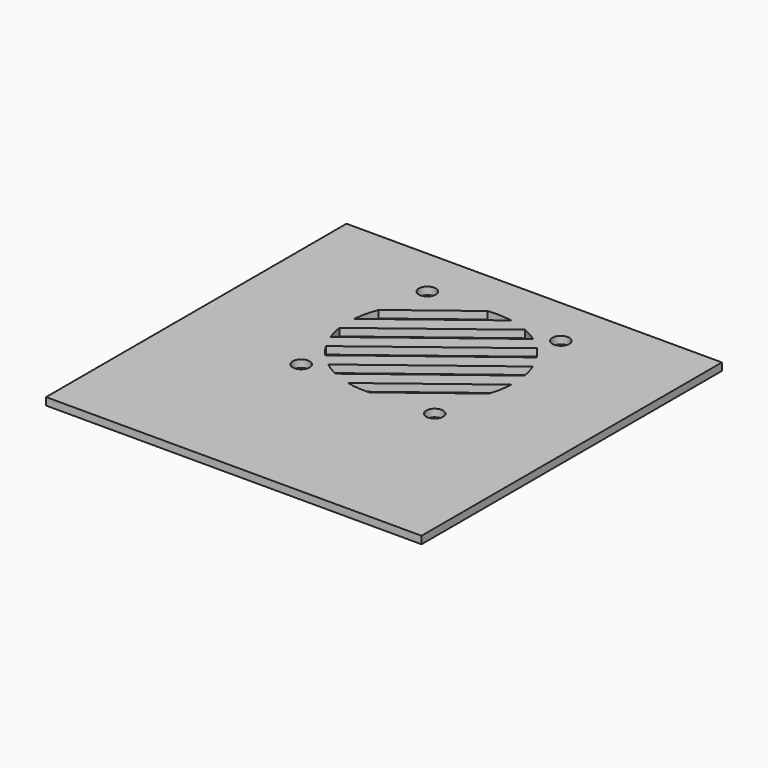
from build123d import *

# Parameters (mm, degrees)
F0_W     = 150
F0_H     = 150
F1_DEPTH = 3
F2_D     = 6.7564
F4_DEPTH = 25


with BuildPart() as f1:
    # F0 (on Top) → F1 (new body)
    with BuildSketch(Plane.XY):
        with Locations((0, 1.9158130744)):
            Rectangle(F0_W, F0_H)
    extrude(amount=F1_DEPTH)

    # F2 (through all)
    with Locations(Plane(origin=(0, 0, 0), x_dir=(1, 0, 0), z_dir=(0, 0, -1))):
        with Locations((-26.6683554199, -56.9034204527), (26.6683554199, -56.9034204527), (-26.6683554199, 6.102117215), (26.6683554199, 6.102117215)):
            Hole(F2_D / 2)

    # F3 (on face) → F4 (cut)
    with BuildSketch(Plane.XY.offset(3)):
        with BuildLine():
            Line((-3.7946185299, 58.3347232517), (-30.747280214, 37.7231456992))
            ThreePointArc((-30.747280214, 37.7231456992), (-32.2234435202, 33.0477107055), (-32.9929459562, 28.2055400674))
            Line((-32.9929459562, 28.2055400674), (5.9788893458, 58.0085708442))
            ThreePointArc((5.9788893458, 58.0085708442), (1.1042434503, 58.5344775669), (-3.7946185299, 58.3347232517))
        make_face()
        with BuildLine():
            Line((13.2642979666, 55.7796879625), (-32.7505124435, 20.5906649099))
            ThreePointArc((-32.7505124435, 20.5906649099), (-32.0865867054, 17.2832595371), (-31.0895548602, 14.0605812744))
            Line((-31.0895548602, 14.0605812744), (19.1311825167, 52.4660135586))
            ThreePointArc((19.1311825167, 52.4660135586), (16.2822571669, 54.2724885893), (13.2642979666, 55.7796879625))
        make_face()
        with BuildLine():
            Line((23.9241830701, 48.3311051134), (-28.3547132801, 8.3517316803))
            ThreePointArc((-28.3547132801, 8.3517316803), (-26.6305999484, 5.7731261787), (-24.6727303472, 3.3671919031))
            Line((-24.6727303472, 3.3671919031), (27.7700422707, 43.4718868513))
            ThreePointArc((27.7700422707, 43.4718868513), (25.96105225, 45.9916741873), (23.9241830701, 48.3311051134))
        make_face()
        with BuildLine():
            Line((30.6779404767, 37.8953792911), (-20.0527864197, -0.900058576))
            ThreePointArc((-20.0527864197, -0.900058576), (-17.3098813008, -2.7781418823), (-14.3924694915, -4.371701963))
            Line((-14.3924694915, -4.371701963), (32.545465682, 31.5232646388))
            ThreePointArc((32.545465682, 31.5232646388), (31.7718544133, 34.7562587621), (30.6779404767, 37.8953792911))
        make_face()
        with BuildLine():
            Line((33.0822923496, 24.1335215078), (-7.4014540257, -6.8257168713))
            ThreePointArc((-7.4014540257, -6.8257168713), (-2.8461445024, -7.5410678745), (1.7643727579, -7.6165827867))
            Line((1.7643727579, -7.6165827867), (31.4443076996, 15.0806293838))
            ThreePointArc((31.4443076996, 15.0806293838), (32.5792762723, 19.5499042969), (33.0822923496, 24.1335215078))
        make_face()
    extrude(amount=-F4_DEPTH, mode=Mode.SUBTRACT)


solid = f1.part
